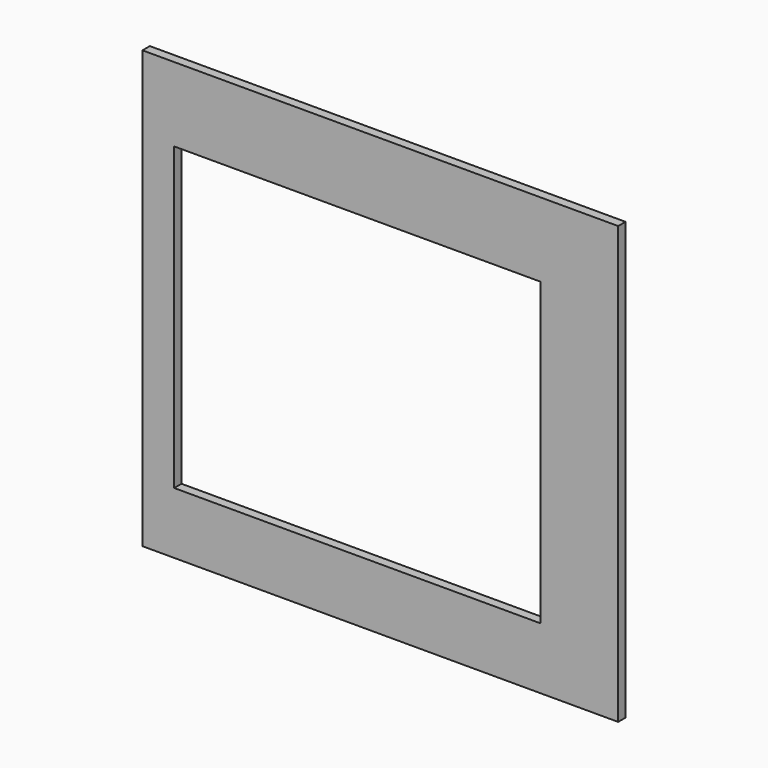
from build123d import *

# Parameters (mm, degrees)
F0_W     = 155
F0_H     = 130.75
F1_DEPTH = 3
F2_W     = 113.37
F2_H     = 92
F3_DEPTH = 25
F4_W     = 119.37
F4_H     = 98
F5_DEPTH = 25
F6_R     = 1.5
F7_DEPTH = 2
F8_W     = 155
F8_H     = 3
F9_DEPTH = 11.5


with BuildPart() as f1:
    # F0 (on Front) → F1 (new body)
    with BuildSketch(Plane.XZ):
        Rectangle(F0_W, F0_H)
    extrude(amount=F1_DEPTH)

    # F2 (on face) → F3 (cut)
    with BuildSketch(Plane(origin=(0, 0, 0), x_dir=(-1, 0, 0), z_dir=(0, 1, 0))):
        with Locations((7.5, 3.68)):
            Rectangle(F2_W, F2_H)
    extrude(amount=-F3_DEPTH, mode=Mode.SUBTRACT)

    # F4 (on face) → F5 (cut)
    with BuildSketch(Plane.XZ.offset(3)):
        with Locations((-7.5, 3.68)):
            Rectangle(F4_W, F4_H)
    extrude(amount=-F5_DEPTH, mode=Mode.SUBTRACT)

    # F6 (on face) → F7 (cut)
    with BuildSketch(Plane(origin=(0, 0, 0), x_dir=(-1, 0, 0), z_dir=(0, 1, 0))):
        with Locations((-55.685, 56.18)):
            Circle(F6_R)
        with Locations((70.685, 56.18)):
            Circle(F6_R)
        with Locations((70.685, -48.82)):
            Circle(F6_R)
        with Locations((-55.685, -48.82)):
            Circle(F6_R)
        with Locations((7.5, -48.82)):
            Circle(F6_R)
        with Locations((-55.685, 3.68)):
            Circle(F6_R)
        with Locations((70.685, 3.68)):
            Circle(F6_R)
        with Locations((7.5, 56.18)):
            Circle(F6_R)
    extrude(amount=-F7_DEPTH, mode=Mode.SUBTRACT)

    # F8 (on face) → F9 (join)
    with BuildSketch(Plane.XY.offset(65.375)):
        with Locations((0, -1.5)):
            Rectangle(F8_W, F8_H)
    extrude(amount=F9_DEPTH)


solid = f1.part
